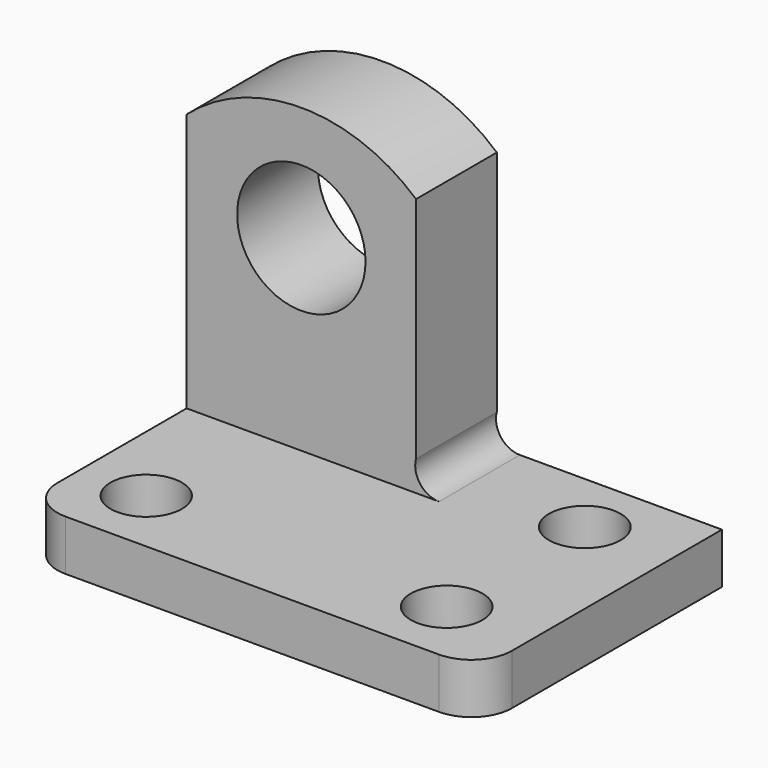
from build123d import *

# Parameters (mm, degrees)
F0_W      = 57.15
F0_H      = 6.35
F1_DEPTH  = 38.1
F2_R      = 5.08
F3_W      = 31.75
F3_H      = 38.1
F4_DEPTH  = 12.7
F6_DEPTH  = 25.4
F7_R      = 8.072942
F8_DEPTH  = 25.4
F9_R      = 4.506812
F9_R_2    = 4.48794
F10_DEPTH = 25.4


with BuildPart() as f1:
    # F0 (on Front) → F1 (new body)
    with BuildSketch(Plane.XZ):
        with Locations((28.575, 3.175)):
            Rectangle(F0_W, F0_H)
    extrude(amount=F1_DEPTH)

    # F2
    f2_edges = [f1.edges().sort_by_distance(p)[0] for p in [
        (0, -38.1, 3.175),
        (57.15, -38.1, 3.175),
    ]]
    fillet(f2_edges, radius=F2_R)

    # F3 (on Front) → F4 (join)
    with BuildSketch(Plane.XZ):
        with Locations((15.875, 25.30028)):
            Rectangle(F3_W, F3_H)
    extrude(amount=F4_DEPTH)

    # F5 (on face) → F6 (cut)
    with BuildSketch(Plane.XZ.offset(12.7)):
        with BuildLine():
            Line((28.845884, 38.892605), (28.845884, 10.145596))
            ThreePointArc((28.845884, 10.145596), (29.360416, 7.530471), (31.75, 6.35))
            Line((31.75, 6.35), (31.75, 44.35028))
            Line((31.75, 44.35028), (0, 44.35028))
            Line((0, 44.35028), (0, 38.892605))
            ThreePointArc((0, 38.892605), (14.422942, 44.329867), (28.845884, 38.892605))
        make_face()
    extrude(amount=-F6_DEPTH, mode=Mode.SUBTRACT)

    # F7 (on face) → F8 (cut)
    with BuildSketch(Plane.XZ.offset(12.7)):
        with Locations((14.422942, 29.906925)):
            Circle(F7_R)
    extrude(amount=-F8_DEPTH, mode=Mode.SUBTRACT)

    # F9 (on face) → F10 (cut)
    with BuildSketch(Plane.XY.offset(6.35)):
        with Locations((46.293188, -29.690929)):
            Circle(F9_R)
        with Locations((46.293188, -7.977305)):
            Circle(F9_R)
        with Locations((8.512264, -29.690929)):
            Circle(F9_R_2)
    extrude(amount=-F10_DEPTH, mode=Mode.SUBTRACT)


solid = f1.part
